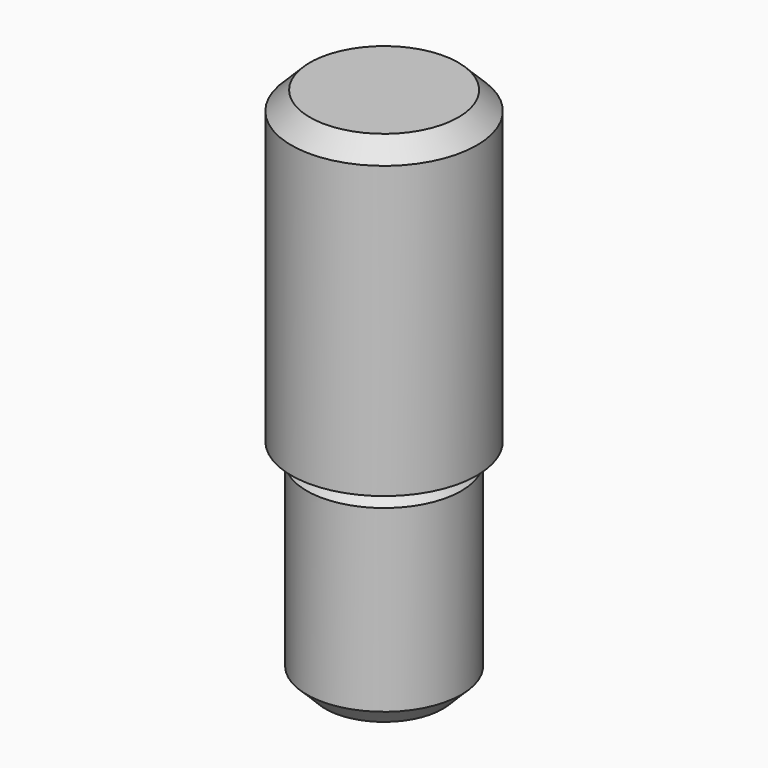
from build123d import *

# Parameters (mm, degrees)
F2_SIZE = 0.3


with BuildPart() as f1:
    # F0 (on Front) → F1 (revolve)
    with BuildSketch(Plane.XZ):
        Polygon((0, 5), (0, 0), (0, -3.5), (1.25, -3.5), (1.25, -0.3), (0.95, 0), (1.25, 0), (1.5, 0), (1.5, 5), align=None)
    revolve(axis=Axis((0, 0, -1.75), (0, 0, 1)))

    # F2
    f2_edges = [f1.edges().sort_by_distance(p)[0] for p in [
        (-1.5, 0, 5),
        (-1.25, 0, -3.5),
    ]]
    chamfer(f2_edges, length=F2_SIZE)


solid = f1.part
